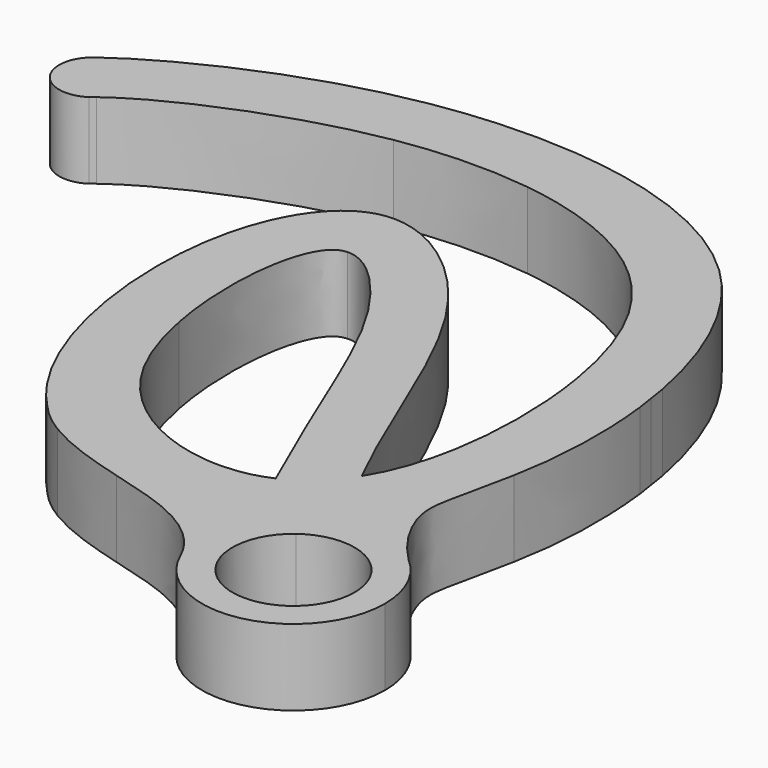
from build123d import *

# Parameters (mm, degrees)
F2_DEPTH = 5
F3_DEPTH = 5


with BuildPart() as f2:
    # F1 (on Top) → F2 (new body)
    with BuildSketch(Plane.XY):
        with BuildLine():
            ThreePointArc((-19.507312665, 11.6229322124), (-20.1181202822, 8.5623774422), (-17.057565512, 7.951569825))
            Line((-17.057565512, 7.951569825), (-19.507312665, 11.6229322124))
        make_face()
        with BuildLine():
            Line((-19.507312665, 11.6229322124), (-17.057565512, 7.951569825))
            add(Edge.make_bspline(
                [(-16.7713887547, 8.1789078924), (-16.8717865921, 8.1021245168), (-16.9672459743, 8.0263028908), (-17.057565512, 7.951569825)],
                knots=[0.9955108382, 0.9955108382, 0.9955108382, 0.9955108382, 1, 1, 1, 1], degree=3))
            ThreePointArc((-16.7713887547, 8.1789078924), (-16.2570191197, 8.9110577334), (-16.0756222127, 9.7872510187))
            ThreePointArc((-16.0756222127, 9.7872510187), (-17.2415334626, 11.7331585708), (-19.507312665, 11.6229322124))
        make_face()
        with BuildLine():
            ThreePointArc((-16.0756222127, 9.7872510187), (-16.2570191197, 8.9110577334), (-16.7713887547, 8.1789078924))
            add(Edge.make_bspline(
                [(-1.9366301412, 13.9833419936), (-7.8442704828, 12.9847341577), (-14.0809859392, 10.2365041031), (-16.7713887547, 8.1789078924)],
                knots=[0.8752128932, 0.8752128932, 0.8752128932, 0.8752128932, 0.9955108382, 0.9955108382, 0.9955108382, 0.9955108382], degree=3))
            Line((-1.9366301412, 13.9833419936), (-2.9955055058, 18.2684533063))
            add(Edge.make_bspline(
                [(-2.9955055058, 18.2684533063), (-10.205223484, 17.0395644672), (-16.5236455239, 13.8231745676), (-19.507312665, 11.6229322124)],
                knots=[0.8859479469, 0.8859479469, 0.8859479469, 0.8859479469, 1, 1, 1, 1], degree=3))
            ThreePointArc((-19.507312665, 11.6229322124), (-17.2415334626, 11.7331585708), (-16.0756222127, 9.7872510187))
        make_face()
        with BuildLine():
            add(Edge.make_bspline(
                [(6.6971361734, 14.1924783526), (4.0081562114, 14.5469298943), (1.0786263214, 14.4930308976), (-1.9366301412, 13.9833419936)],
                knots=[0.8138128865, 0.8138128865, 0.8138128865, 0.8138128865, 0.8752128932, 0.8752128932, 0.8752128932, 0.8752128932], degree=3))
            Line((6.6971361734, 14.1924783526), (7.2017024035, 18.5775449336))
            Line((7.2017024035, 18.5775449336), (6.2696815087, 18.6847876084))
            add(Edge.make_bspline(
                [(6.2696815087, 18.6847876084), (3.1876107705, 18.9485434567), (0.0181857316, 18.7821338049), (-2.9955055058, 18.2684533063)],
                knots=[0.8382737281, 0.8382737281, 0.8382737281, 0.8382737281, 0.8859479469, 0.8859479469, 0.8859479469, 0.8859479469], degree=3))
            Line((-2.9955055058, 18.2684533063), (-1.9366301412, 13.9833419936))
        make_face()
        with BuildLine():
            add(Edge.make_bspline(
                [(21.9372554064, -0.8162904639), (21.7431869177, 0.3623106479), (20.4301582956, 6.1324084279), (16.152381645, 11.7129111681), (9.4405945266, 13.8308456678), (6.6971361734, 14.1924783526)],
                knots=[0.6191029101, 0.6191029101, 0.6191029101, 0.6191029101, 0.6451637189, 0.7511689236, 0.8138128865, 0.8138128865, 0.8138128865, 0.8138128865], degree=3))
            Line((21.9372554064, -0.8162904639), (26.2806469532, -0.1503160042))
            Line((26.2806469532, -0.1503160042), (26.1076679956, 0.977828373))
            add(Edge.make_bspline(
                [(26.1076679956, 0.977828373), (25.2670772101, 5.4120393088), (21.5322437131, 14.2640849333), (12.962415849, 17.7677518812), (8.1337232983, 18.4703022588)],
                knots=[0.6836768106, 0.6836768106, 0.6836768106, 0.6836768106, 0.7527863503, 0.8285964185, 0.8285964185, 0.8285964185, 0.8285964185], degree=3))
            Line((8.1337232983, 18.4703022588), (7.2017024035, 18.5775449336))
            Line((7.2017024035, 18.5775449336), (6.6971361734, 14.1924783526))
        make_face()
        with BuildLine():
            add(Edge.make_bspline(
                [(20.0889106767, -16.1463050153), (20.4855715931, -15.5166440607), (22.4234534354, -11.5479066644), (22.6814531517, -5.335892259), (21.9372554064, -0.8162904639)],
                knots=[0.4975551523, 0.4975551523, 0.4975551523, 0.4975551523, 0.519167082, 0.6191029101, 0.6191029101, 0.6191029101, 0.6191029101], degree=3))
            Line((20.0889106767, -16.1463050153), (21.8660161198, -20.2279227937))
            add(Edge.make_bspline(
                [(21.8660161198, -20.2279227937), (23.9564655762, -18.010472491), (25.3947838602, -14.9261205718), (26.1291940116, -11.1969289511)],
                knots=[0.5539035838, 0.5539035838, 0.5539035838, 0.5539035838, 0.619066066, 0.619066066, 0.619066066, 0.619066066], degree=3))
            add(Edge.make_bspline(
                [(26.1291940116, -11.1969289511), (26.7264057456, -8.1644041557), (26.8581436115, -4.7054657187), (26.4527034305, -1.2724440954)],
                knots=[0.619066066, 0.619066066, 0.619066066, 0.619066066, 0.672055256, 0.672055256, 0.672055256, 0.672055256], degree=3))
            Line((26.4527034305, -1.2724440954), (26.2806469532, -0.1503160042))
            Line((26.2806469532, -0.1503160042), (21.9372554064, -0.8162904639))
        make_face()
        with BuildLine():
            add(Edge.make_bspline(
                [(20.28384615, -21.6454952109), (20.3180391843, -21.619825131), (20.3521016985, -21.5939675956), (20.3860335419, -21.5679232514)],
                knots=[0.5385810267, 0.5385810267, 0.5385810267, 0.5385810267, 0.5395116224, 0.5395116224, 0.5395116224, 0.5395116224], degree=3))
            ThreePointArc((20.3860335419, -21.5679232514), (20.3339721116, -21.6054033459), (20.2823143723, -21.6434379089))
            Line((20.2823143723, -21.6434379089), (20.28384615, -21.6454952109))
        make_face()
        with BuildLine():
            add(Edge.make_bspline(
                [(20.1552763015, -21.7406841825), (20.1983358242, -21.7092470611), (20.2411925379, -21.6775169854), (20.28384615, -21.6454952109)],
                knots=[0.5374201682, 0.5374201682, 0.5374201682, 0.5374201682, 0.5385810267, 0.5385810267, 0.5385810267, 0.5385810267], degree=3))
            ThreePointArc((20.1552763015, -21.7406841825), (18.050857211, -24.9762457931), (18.3526513671, -28.8241489794))
            ThreePointArc((18.3526513671, -28.8241489794), (25.0743998115, -32.3329402852), (29.8655263595, -26.4559831663))
            ThreePointArc((29.8655263595, -26.4559831663), (29.3220011482, -23.9606108735), (27.7898987328, -21.9173378315))
            ThreePointArc((27.7898987328, -21.9173378315), (24.1483727701, -20.4626537154), (20.3860335419, -21.5679232514))
            add(Edge.make_bspline(
                [(20.28384615, -21.6454952109), (20.3180391843, -21.619825131), (20.3521016985, -21.5939675956), (20.3860335419, -21.5679232514)],
                knots=[0.5385810267, 0.5385810267, 0.5385810267, 0.5385810267, 0.5395116224, 0.5395116224, 0.5395116224, 0.5395116224], degree=3))
        make_face()
        with BuildLine():
            ThreePointArc((27.8655263595, -26.4559831663), (22.0704263575, -30.0305623), (21.4767183681, -23.2476196614))
            ThreePointArc((21.4767183681, -23.2476196614), (25.6606263615, -22.8814040327), (27.8655263595, -26.4559831663))
        make_face(mode=Mode.SUBTRACT)
        with BuildLine():
            ThreePointArc((20.2823143723, -21.6434379089), (20.2184711967, -21.6916376038), (20.1552763015, -21.7406841825))
            add(Edge.make_bspline(
                [(20.1552763015, -21.7406841825), (20.1983358242, -21.7092470611), (20.2411925379, -21.6775169854), (20.28384615, -21.6454952109)],
                knots=[0.5374201682, 0.5374201682, 0.5374201682, 0.5374201682, 0.5385810267, 0.5385810267, 0.5385810267, 0.5385810267], degree=3))
            Line((20.28384615, -21.6454952109), (20.2823143723, -21.6434379089))
        make_face()
        with BuildLine():
            add(Edge.make_bspline(
                [(21.8660161198, -20.2279227937), (23.9564655762, -18.010472491), (25.3947838602, -14.9261205718), (26.1291940116, -11.1969289511)],
                knots=[0.5539035838, 0.5539035838, 0.5539035838, 0.5539035838, 0.619066066, 0.619066066, 0.619066066, 0.619066066], degree=3))
            add(Edge.make_bspline(
                [(20.3860335419, -21.5679232514), (20.910800353, -21.1651391388), (21.404313823, -20.7176748394), (21.8660161198, -20.2279227937)],
                knots=[0.5395116224, 0.5395116224, 0.5395116224, 0.5395116224, 0.5539035838, 0.5539035838, 0.5539035838, 0.5539035838], degree=3))
            ThreePointArc((20.3860335419, -21.5679232514), (24.1483727701, -20.4626537154), (27.7898987328, -21.9173378315))
            add(Edge.make_bspline(
                [(27.7898987328, -21.9173378315), (26.3633456032, -20.5185059493), (24.378390887, -17.0223641834), (25.3979956076, -15.1471171757), (26.1291940116, -11.1969289511)],
                knots=[0, 0, 0, 0, 0.4693003582, 1, 1, 1, 1], degree=3))
        make_face()
        with BuildLine():
            add(Edge.make_bspline(
                [(16.8182095123, -19.1030671497), (18.1425078952, -18.5024765803), (19.2361062905, -17.500049742), (20.0889106767, -16.1463050153)],
                knots=[0.451090407, 0.451090407, 0.451090407, 0.451090407, 0.4975551523, 0.4975551523, 0.4975551523, 0.4975551523], degree=3))
            Line((16.8182095123, -19.1030671497), (18.423830983, -22.7908242075))
            add(Edge.make_bspline(
                [(18.423830983, -22.7908242075), (19.0330581339, -22.4893818232), (19.6104042868, -22.1384871917), (20.1552763015, -21.7406841825)],
                knots=[0.5227307518, 0.5227307518, 0.5227307518, 0.5227307518, 0.5374201682, 0.5374201682, 0.5374201682, 0.5374201682], degree=3))
            ThreePointArc((20.1552763015, -21.7406841825), (20.2184711967, -21.6916376038), (20.2823143723, -21.6434379089))
            ThreePointArc((20.2823143723, -21.6434379089), (20.3339721116, -21.6054033459), (20.3860335419, -21.5679232514))
            add(Edge.make_bspline(
                [(20.3860335419, -21.5679232514), (20.910800353, -21.1651391388), (21.404313823, -20.7176748394), (21.8660161198, -20.2279227937)],
                knots=[0.5395116224, 0.5395116224, 0.5395116224, 0.5395116224, 0.5539035838, 0.5539035838, 0.5539035838, 0.5539035838], degree=3))
            Line((21.8660161198, -20.2279227937), (20.0889106767, -16.1463050153))
        make_face()
        with BuildLine():
            add(Edge.make_bspline(
                [(14.4563719041, -13.6784490389), (11.9478924144, -7.7422020563), (9.7349430762, -1.5657958226), (5.2149294509, 2.8546170768), (4.0040064051, 2.7972669281)],
                knots=[0.0049121983, 0.0049121983, 0.0049121983, 0.0049121983, 0.1221501352, 0.1829454827, 0.1829454827, 0.1829454827, 0.1829454827], degree=3))
            Line((14.4563719041, -13.6784490389), (16.8182095123, -19.1030671497))
            add(Edge.make_bspline(
                [(16.8182095123, -19.1030671497), (18.1425078952, -18.5024765803), (19.2361062905, -17.500049742), (20.0889106767, -16.1463050153)],
                knots=[0.451090407, 0.451090407, 0.451090407, 0.451090407, 0.4975551523, 0.4975551523, 0.4975551523, 0.4975551523], degree=3))
            add(Edge.make_bspline(
                [(20.0889106767, -16.1463050153), (16.9401236551, -9.9142919394), (13.6823761538, 1.6324368893), (2.5693543705, 9.8063367262), (-2.1248910522, 3.022137917), (-2.6490037256, -2.9809927289), (-2.6464978897, -4.5347120871)],
                knots=[0, 0, 0, 0, 0.1199634116, 0.2062068397, 0.2872216608, 0.314003854, 0.314003854, 0.314003854, 0.314003854], degree=3))
            Line((-2.6464978897, -4.5347120871), (2.1194828857, -8.6641340779))
            add(Edge.make_bspline(
                [(4.0040064051, 2.7972669281), (3.7641689139, 2.7859080594), (1.8125458048, 2.1592306174), (1.1732206956, -3.8027881615), (2.1194828857, -8.6641340779)],
                knots=[0.1829454827, 0.1829454827, 0.1829454827, 0.1829454827, 0.1949867133, 0.2865650036, 0.2865650036, 0.2865650036, 0.2865650036], degree=3))
        make_face()
        with BuildLine():
            add(Edge.make_bspline(
                [(2.1194828857, -8.6641340779), (2.451951584, -10.3721652827), (4.5992106957, -17.2300714321), (10.3005032332, -19.8299319856), (13.8213645144, -19.7546669605)],
                knots=[0.2865650036, 0.2865650036, 0.2865650036, 0.2865650036, 0.3187409854, 0.4196783767, 0.4196783767, 0.4196783767, 0.4196783767], degree=3))
            Line((2.1194828857, -8.6641340779), (-2.6464978897, -4.5347120871))
            add(Edge.make_bspline(
                [(-2.6464978897, -4.5347120871), (-2.6375186339, -10.1022130055), (-0.9243512122, -16.4688966728), (2.6815896388, -20.1529055202)],
                knots=[0.314003854, 0.314003854, 0.314003854, 0.314003854, 0.4099734929, 0.4099734929, 0.4099734929, 0.4099734929], degree=3))
            add(Edge.make_bspline(
                [(2.6815896388, -20.1529055202), (3.2888595942, -20.7733227653), (3.9498110967, -21.3176558196), (4.6502852132, -21.7881497513)],
                knots=[0.4099734929, 0.4099734929, 0.4099734929, 0.4099734929, 0.4261355656, 0.4261355656, 0.4261355656, 0.4261355656], degree=3))
            add(Edge.make_bspline(
                [(4.6502852132, -21.7881497513), (6.3183184941, -22.808218778), (8.3425108076, -23.4085076745), (10.2652286752, -23.9440009422)],
                knots=[0.1237445993, 0.1237445993, 0.1237445993, 0.1237445993, 0.402852742, 0.402852742, 0.402852742, 0.402852742], degree=3))
            add(Edge.make_bspline(
                [(10.2652286752, -23.9440009422), (12.7368741912, -24.3235901556), (15.6569018468, -24.0237679584), (18.0975894514, -22.9522467983), (18.423830983, -22.7908242075)],
                knots=[0.4654861274, 0.4654861274, 0.4654861274, 0.4654861274, 0.5148645599, 0.5227307518, 0.5227307518, 0.5227307518, 0.5227307518], degree=3))
            Line((18.423830983, -22.7908242075), (14.8270740529, -19.6744609944))
            add(Edge.make_bspline(
                [(13.8213645144, -19.7546669605), (14.1476800852, -19.747691352), (14.4841877515, -19.7218219565), (14.8105324117, -19.6767961713), (14.8270740529, -19.6744609944)],
                knots=[0.4196783767, 0.4196783767, 0.4196783767, 0.4196783767, 0.4290333156, 0.4295336475, 0.4295336475, 0.4295336475, 0.4295336475], degree=3))
        make_face()
        with BuildLine():
            add(Edge.make_bspline(
                [(2.6815896388, -20.1529055202), (3.2888595942, -20.7733227653), (3.9498110967, -21.3176558196), (4.6502852132, -21.7881497513)],
                knots=[0.4099734929, 0.4099734929, 0.4099734929, 0.4099734929, 0.4261355656, 0.4261355656, 0.4261355656, 0.4261355656], degree=3))
            add(Edge.make_bspline(
                [(2.6815896388, -20.1529055202), (3.2412247581, -20.8011255668), (3.9107506805, -21.3358948235), (4.6502852132, -21.7881497513)],
                knots=[0, 0, 0, 0, 0.1237445993, 0.1237445993, 0.1237445993, 0.1237445993], degree=3))
        make_face()
        with BuildLine():
            add(Edge.make_bspline(
                [(2.1194828857, -8.6641340779), (2.451951584, -10.3721652827), (4.5992106957, -17.2300714321), (10.3005032332, -19.8299319856), (13.8213645144, -19.7546669605)],
                knots=[0.2865650036, 0.2865650036, 0.2865650036, 0.2865650036, 0.3187409854, 0.4196783767, 0.4196783767, 0.4196783767, 0.4196783767], degree=3))
            Line((2.1194828857, -8.6641340779), (-2.6464978897, -4.5347120871))
            add(Edge.make_bspline(
                [(-2.6464978897, -4.5347120871), (-2.6375186339, -10.1022130055), (-0.9243512122, -16.4688966728), (2.6815896388, -20.1529055202)],
                knots=[0.314003854, 0.314003854, 0.314003854, 0.314003854, 0.4099734929, 0.4099734929, 0.4099734929, 0.4099734929], degree=3))
            add(Edge.make_bspline(
                [(2.6815896388, -20.1529055202), (3.2888595942, -20.7733227653), (3.9498110967, -21.3176558196), (4.6502852132, -21.7881497513)],
                knots=[0.4099734929, 0.4099734929, 0.4099734929, 0.4099734929, 0.4261355656, 0.4261355656, 0.4261355656, 0.4261355656], degree=3))
            add(Edge.make_bspline(
                [(4.6502852132, -21.7881497513), (6.3183184941, -22.808218778), (8.3425108076, -23.4085076745), (10.2652286752, -23.9440009422)],
                knots=[0.1237445993, 0.1237445993, 0.1237445993, 0.1237445993, 0.402852742, 0.402852742, 0.402852742, 0.402852742], degree=3))
            add(Edge.make_bspline(
                [(10.2652286752, -23.9440009422), (12.7368741912, -24.3235901556), (15.6569018468, -24.0237679584), (18.0975894514, -22.9522467983), (18.423830983, -22.7908242075)],
                knots=[0.4654861274, 0.4654861274, 0.4654861274, 0.4654861274, 0.5148645599, 0.5227307518, 0.5227307518, 0.5227307518, 0.5227307518], degree=3))
            Line((18.423830983, -22.7908242075), (14.8270740529, -19.6744609944))
            add(Edge.make_bspline(
                [(13.8213645144, -19.7546669605), (14.1476800852, -19.747691352), (14.4841877515, -19.7218219565), (14.8105324117, -19.6767961713), (14.8270740529, -19.6744609944)],
                knots=[0.4196783767, 0.4196783767, 0.4196783767, 0.4196783767, 0.4290333156, 0.4295336475, 0.4295336475, 0.4295336475, 0.4295336475], degree=3))
        make_face()
        with BuildLine():
            add(Edge.make_bspline(
                [(18.423830983, -22.7908242075), (19.0330581339, -22.4893818232), (19.6104042868, -22.1384871917), (20.1552763015, -21.7406841825)],
                knots=[0.5227307518, 0.5227307518, 0.5227307518, 0.5227307518, 0.5374201682, 0.5374201682, 0.5374201682, 0.5374201682], degree=3))
            add(Edge.make_bspline(
                [(10.2652286752, -23.9440009422), (12.7368741912, -24.3235901556), (15.6569018468, -24.0237679584), (18.0975894514, -22.9522467983), (18.423830983, -22.7908242075)],
                knots=[0.4654861274, 0.4654861274, 0.4654861274, 0.4654861274, 0.5148645599, 0.5227307518, 0.5227307518, 0.5227307518, 0.5227307518], degree=3))
            add(Edge.make_bspline(
                [(10.2652286752, -23.9440009422), (11.5592578214, -24.3043990577), (15.5267661481, -25.3567777314), (17.6199648235, -27.2061546689), (18.3526513671, -28.8241489794)],
                knots=[0.402852742, 0.402852742, 0.402852742, 0.402852742, 0.5906983316, 1, 1, 1, 1], degree=3))
            ThreePointArc((18.3526513671, -28.8241489794), (18.050857211, -24.9762457931), (20.1552763015, -21.7406841825))
        make_face()
        with BuildLine():
            Line((18.423830983, -22.7908242075), (16.8182095123, -19.1030671497))
            add(Edge.make_bspline(
                [(14.8270740529, -19.6744609944), (15.5397694035, -19.5738500762), (16.2038172105, -19.3817039186), (16.8182095123, -19.1030671497)],
                knots=[0.4295336475, 0.4295336475, 0.4295336475, 0.4295336475, 0.451090407, 0.451090407, 0.451090407, 0.451090407], degree=3))
            Line((14.8270740529, -19.6744609944), (18.423830983, -22.7908242075))
        make_face()
    extrude(amount=F2_DEPTH)

    # F1 (on Top) → F3 (join)
    with BuildSketch(Plane.XY):
        with BuildLine():
            add(Edge.make_bspline(
                [(18.423830983, -22.7908242075), (19.0330581339, -22.4893818232), (19.6104042868, -22.1384871917), (20.1552763015, -21.7406841825)],
                knots=[0.5227307518, 0.5227307518, 0.5227307518, 0.5227307518, 0.5374201682, 0.5374201682, 0.5374201682, 0.5374201682], degree=3))
            add(Edge.make_bspline(
                [(10.2652286752, -23.9440009422), (12.7368741912, -24.3235901556), (15.6569018468, -24.0237679584), (18.0975894514, -22.9522467983), (18.423830983, -22.7908242075)],
                knots=[0.4654861274, 0.4654861274, 0.4654861274, 0.4654861274, 0.5148645599, 0.5227307518, 0.5227307518, 0.5227307518, 0.5227307518], degree=3))
            add(Edge.make_bspline(
                [(10.2652286752, -23.9440009422), (11.5592578214, -24.3043990577), (15.5267661481, -25.3567777314), (17.6199648235, -27.2061546689), (18.3526513671, -28.8241489794)],
                knots=[0.402852742, 0.402852742, 0.402852742, 0.402852742, 0.5906983316, 1, 1, 1, 1], degree=3))
            ThreePointArc((18.3526513671, -28.8241489794), (18.050857211, -24.9762457931), (20.1552763015, -21.7406841825))
        make_face()
    extrude(amount=F3_DEPTH)


solid = f2.part
